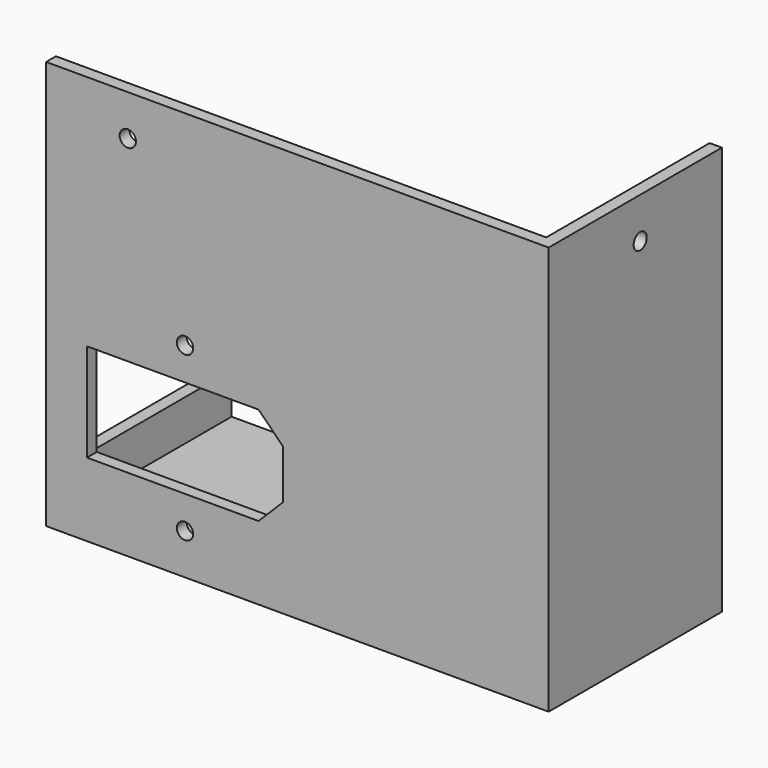
from build123d import *

# Parameters (mm, degrees)
F0_W      = 123
F0_H      = 100
F0_R      = 2
F1_DEPTH  = 3
F2_W      = 3
F2_H      = 100
F3_DEPTH  = 50
F4_W      = 120
F4_H      = 3
F5_DEPTH  = 50
F6_R      = 2
F7_DEPTH  = 53.001
F8_R      = 2
F9_DEPTH  = 123.001
F10_W     = 3
F10_H     = 50
F11_DEPTH = 10
F13_DEPTH = 10


with BuildPart() as f1:
    # F0 (on Front) → F1 (new body)
    with BuildSketch(Plane.XZ):
        with Locations((61.5, -50)):
            Rectangle(F0_W, F0_H)
        with Locations((34, -90)):
            Circle(F0_R, mode=Mode.SUBTRACT)
        Polygon((10, -82), (10, -58), (52, -58), (58, -64), (58, -76), (52, -82), align=None, mode=Mode.SUBTRACT)
        with Locations((34, -50)):
            Circle(F0_R, mode=Mode.SUBTRACT)
    extrude(amount=F1_DEPTH)

    # F2 (on face) → F3 (join)
    with BuildSketch(Plane(origin=(0, 0, 0), x_dir=(-1, 0, 0), z_dir=(0, 1, 0))):
        with Locations((-121.5, -50)):
            Rectangle(F2_W, F2_H)
    extrude(amount=F3_DEPTH)

    # F4 (on face) → F5 (join)
    with BuildSketch(Plane(origin=(0, 0, 0), x_dir=(-1, 0, 0), z_dir=(0, 1, 0))):
        with Locations((-60, -98.5)):
            Rectangle(F4_W, F4_H)
    extrude(amount=F5_DEPTH)

    # F6 (on face) → F7 (cut, through all)
    with BuildSketch(Plane.XZ.offset(3)):
        with Locations((20, -10)):
            Circle(F6_R)
    extrude(amount=-F7_DEPTH, mode=Mode.SUBTRACT)

    # F8 (on face) → F9 (cut, through all)
    with BuildSketch(Plane.YZ.offset(123)):
        with Locations((25, -10)):
            Circle(F8_R)
    extrude(amount=-F9_DEPTH, mode=Mode.SUBTRACT)

    # F10 (on face) → F11 (join)
    with BuildSketch(Plane.XY.offset(-97)):
        with Locations((1.5, 25)):
            Rectangle(F10_W, F10_H)
    extrude(amount=F11_DEPTH)

    # F12 (on face) → F13 (join)
    with BuildSketch(Plane(origin=(0, 50, 0), x_dir=(-1, 0, 0), z_dir=(0, 1, 0))):
        Polygon((-120, -35), (-120, -50), (-114, -39.607695), (-114, -28), (-117, -28), (-117, -35), align=None)
    extrude(amount=-F13_DEPTH)


solid = f1.part
